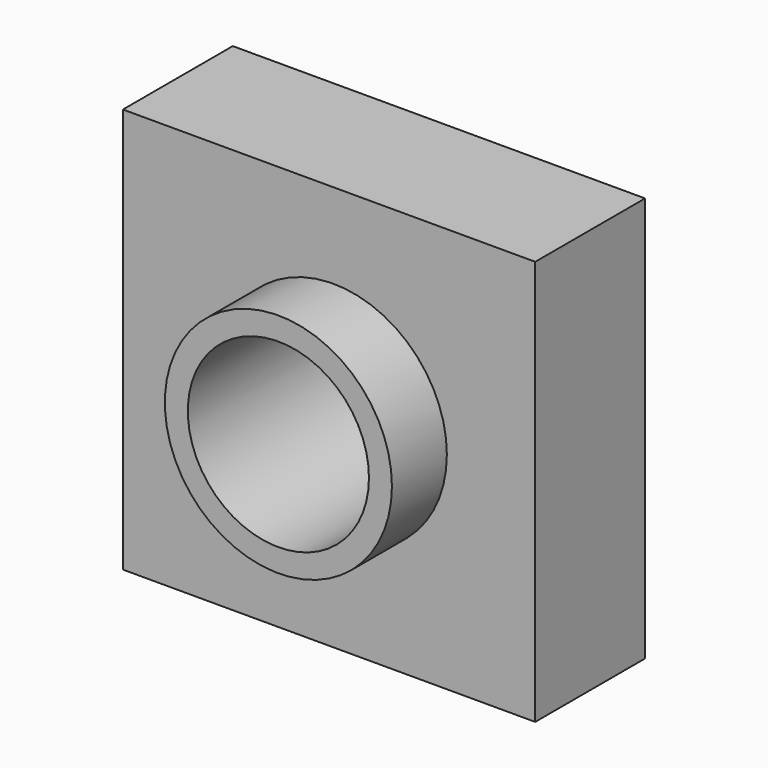
from build123d import *

# Parameters (mm, degrees)
F0_W     = 75.066100806
F0_H     = 73.7491436303
F0_R     = 20.5583136179
F1_DEPTH = 12.5
F2_R     = 20.672322723
F2_R_2   = 16.4899747226
F3_DEPTH = 25


with BuildPart() as f1:
    # F0 (on Front) → F1 (new body, symmetric)
    with BuildSketch(Plane.XZ):
        with Locations((-0.7716510445, -0.7411073893)):
            Rectangle(F0_W, F0_H)
        Circle(F0_R, mode=Mode.SUBTRACT)
    extrude(amount=F1_DEPTH, both=True)

    # F2 (on Front) → F3 (join, symmetric)
    with BuildSketch(Plane.XZ):
        Circle(F2_R)
        Circle(F2_R_2, mode=Mode.SUBTRACT)
    extrude(amount=F3_DEPTH, both=True)


solid = f1.part
